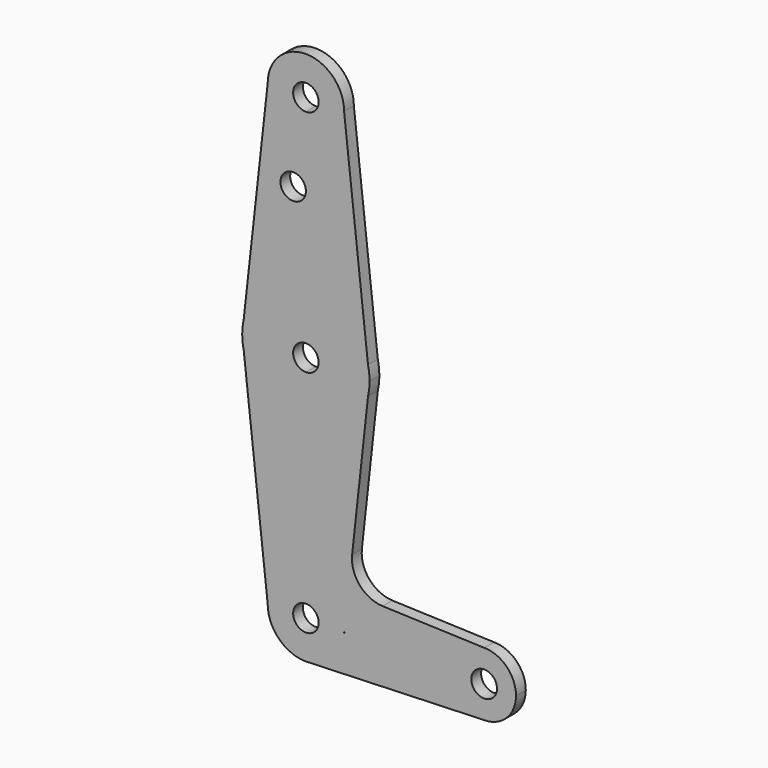
from build123d import *

# Parameters (mm, degrees)
F0_R     = 3.175
F1_DEPTH = 3.048


with BuildPart() as f1:
    # F0 (on Front) → F1 (new body)
    with BuildSketch(Plane.XZ):
        with BuildLine():
            ThreePointArc((3.175, 0), (-2.2450640303, -2.2450640303), (0, 3.175))
            Line((0, 3.175), (0, 9.525))
            ThreePointArc((0, 9.525), (-6.7351920908, 6.7351920908), (-9.525, 0))
            ThreePointArc((-9.525, 0), (-6.7351920908, -6.7351920908), (0, -9.525))
            Line((0, -9.525), (0.6794904459, -9.5007324841))
            ThreePointArc((0.6794904459, -9.5007324841), (6.6051097341, -6.8628092208), (9.4677845112, -1.042440142))
            ThreePointArc((9.4677845112, -1.042440142), (9.5106853714, -0.5220045646), (9.525, 0))
            Line((9.525, 0), (3.175, 0))
        make_face()
        with BuildLine():
            ThreePointArc((-9.525, 0), (-6.7351920908, 6.7351920908), (0, 9.525))
            Line((0, 9.525), (0, 41.275))
            ThreePointArc((0, 41.275), (-9.9170338799, 44.7537076501), (-15.487804878, 53.6652439024))
            Line((-15.487804878, 53.6652439024), (-9.525, 0))
        make_face()
        with BuildLine():
            Line((0, 41.275), (0, 9.525))
            ThreePointArc((0, 9.525), (0.3399618281, 9.5189311877), (0.6794904459, 9.5007324841))
            ThreePointArc((0.6794904459, 9.5007324841), (6.9712901065, 6.4905114784), (9.525, 0))
            Line((9.525, 0), (9.5825612521, 0))
            Line((9.5825612521, 0), (36.5125, 0))
            ThreePointArc((36.5125, 0), (38.8373399243, 5.6126600757), (44.45, 7.9375))
            Line((44.45, 7.9375), (19.1452964, 8.8412394143))
            ThreePointArc((19.1452964, 8.8412394143), (13.4140275575, 11.5878000832), (11.5266070672, 17.6564640174))
            Line((11.5266070672, 17.6564640174), (15.494709029, 53.6960722204))
            ThreePointArc((15.494709029, 53.6960722204), (9.9293635621, 44.7635814599), (0, 41.275))
        make_face()
        with BuildLine():
            ThreePointArc((-15.487804878, 53.6652439024), (-9.9170338799, 44.7537076501), (0, 41.275))
            Line((0, 41.275), (0, 53.975))
            ThreePointArc((0, 53.975), (-3.175, 57.15), (0, 60.325))
            Line((0, 60.325), (0, 73.025))
            ThreePointArc((0, 73.025), (-9.9170338799, 69.5462923499), (-15.487804878, 60.6347560976))
            Line((-15.487804878, 60.6347560976), (-15.875, 57.15))
            Line((-15.875, 57.15), (-15.487804878, 53.6652439024))
        make_face()
        with BuildLine():
            Line((0, 53.975), (0, 41.275))
            ThreePointArc((0, 41.275), (9.9293635621, 44.7635814599), (15.494709029, 53.6960722204))
            Line((15.494709029, 53.6960722204), (15.875, 57.15))
            Line((15.875, 57.15), (15.487804878, 60.6347560976))
            ThreePointArc((15.487804878, 60.6347560976), (9.9170338799, 69.5462923499), (0, 73.025))
            Line((0, 73.025), (0, 60.325))
            ThreePointArc((0, 60.325), (2.2450640303, 59.3950640303), (3.175, 57.15))
            ThreePointArc((3.175, 57.15), (2.2450640303, 54.9049359697), (0, 53.975))
        make_face()
        with BuildLine():
            Line((36.5125, 0), (9.5825612521, 0))
            Line((9.5825612521, 0), (9.4677845112, -1.042440142))
            ThreePointArc((9.4677845112, -1.042440142), (6.6051097341, -6.8628092208), (0.6794904459, -9.5007324841))
            Line((0.6794904459, -9.5007324841), (44.45, -7.9375))
            ThreePointArc((44.45, -7.9375), (38.8373399243, -5.6126600757), (36.5125, 0))
        make_face()
        with BuildLine():
            ThreePointArc((-15.875, 57.15), (-15.7779042879, 55.3968995236), (-15.487804878, 53.6652439024))
            Line((-15.487804878, 53.6652439024), (-15.875, 57.15))
        make_face()
        with BuildLine():
            Line((15.875, 57.15), (15.494709029, 53.6960722204))
            ThreePointArc((15.494709029, 53.6960722204), (15.779640852, 55.4125997633), (15.875, 57.15))
        make_face()
        with BuildLine():
            Line((0.6794904459, -9.5007324841), (0, -9.525))
            ThreePointArc((0, -9.525), (0.3399618281, -9.5189311877), (0.6794904459, -9.5007324841))
        make_face()
        with BuildLine():
            ThreePointArc((44.45, 7.9375), (38.8373399243, 5.6126600757), (36.5125, 0))
            ThreePointArc((36.5125, 0), (38.8373399243, -5.6126600757), (44.45, -7.9375))
            ThreePointArc((44.45, -7.9375), (50.0626600757, -5.6126600757), (52.3875, 0))
            ThreePointArc((52.3875, 0), (50.0626600757, 5.6126600757), (44.45, 7.9375))
        make_face()
        with BuildLine():
            ThreePointArc((47.6471578922, 0), (44.45, -3.1971578922), (41.2528421078, 0))
            ThreePointArc((41.2528421078, 0), (44.45, 3.1971578922), (47.6471578922, 0))
        make_face(mode=Mode.SUBTRACT)
        with BuildLine():
            ThreePointArc((-15.487804878, 60.6347560976), (-15.7779042879, 58.9031004764), (-15.875, 57.15))
            Line((-15.875, 57.15), (-15.487804878, 60.6347560976))
        make_face()
        with BuildLine():
            Line((15.487804878, 60.6347560976), (15.875, 57.15))
            ThreePointArc((15.875, 57.15), (15.7779042879, 58.9031004764), (15.487804878, 60.6347560976))
        make_face()
        with BuildLine():
            ThreePointArc((-15.487804878, 60.6347560976), (-9.9170338799, 69.5462923499), (0, 73.025))
            Line((0, 73.025), (0, 93.6752))
            Line((0, 93.6752), (0, 104.775))
            ThreePointArc((0, 104.775), (-6.7351920908, 107.5648079092), (-9.525, 114.3))
            Line((-9.525, 114.3), (-15.487804878, 60.6347560976))
        make_face()
        with Locations((-3.175, 93.6752)):
            Circle(F0_R, mode=Mode.SUBTRACT)
        with BuildLine():
            Line((0, 93.6752), (0, 73.025))
            ThreePointArc((0, 73.025), (9.9170338799, 69.5462923499), (15.487804878, 60.6347560976))
            Line((15.487804878, 60.6347560976), (9.525, 114.3))
            ThreePointArc((9.525, 114.3), (6.7351920908, 107.5648079092), (0, 104.775))
            Line((0, 104.775), (0, 93.6752))
        make_face()
        with BuildLine():
            ThreePointArc((9.525, 114.3), (0, 123.825), (-9.525, 114.3))
            ThreePointArc((-9.525, 114.3), (-6.7351920908, 107.5648079092), (0, 104.775))
            ThreePointArc((0, 104.775), (6.7351920908, 107.5648079092), (9.525, 114.3))
        make_face()
        with BuildLine():
            ThreePointArc((3.175, 114.3), (2.2450640303, 112.0549359697), (0, 111.125))
            ThreePointArc((0, 111.125), (-2.2450640303, 116.5450640303), (3.175, 114.3))
        make_face(mode=Mode.SUBTRACT)
        with BuildLine():
            Line((0, 9.525), (0, 3.175))
            ThreePointArc((0, 3.175), (2.2450640303, 2.2450640303), (3.175, 0))
            Line((3.175, 0), (9.525, 0))
            ThreePointArc((9.525, 0), (6.9712901065, 6.4905114784), (0.6794904459, 9.5007324841))
            Line((0.6794904459, 9.5007324841), (0, 9.525))
        make_face()
    extrude(amount=F1_DEPTH)


solid = f1.part
